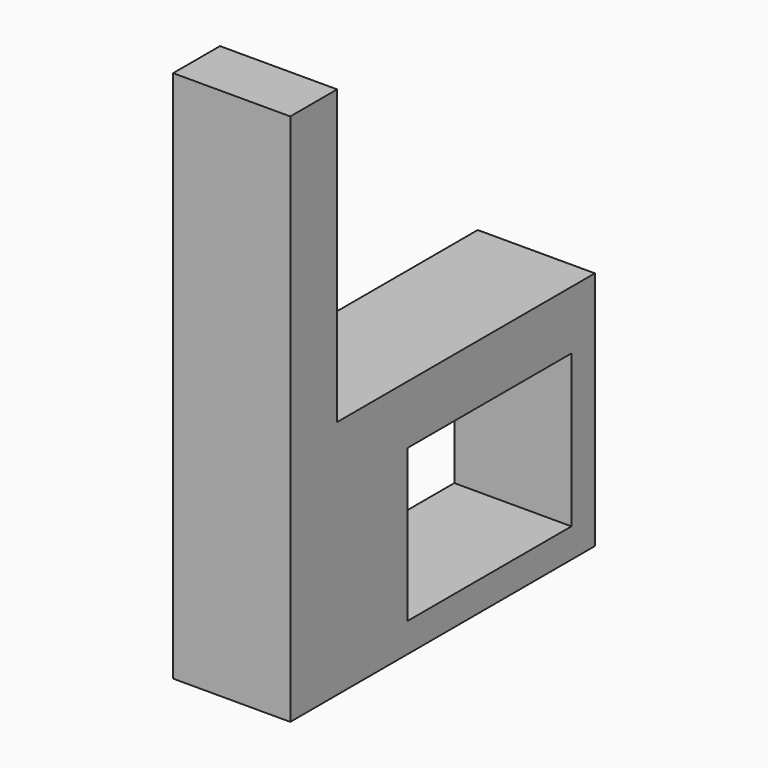
from build123d import *

# Parameters (mm, degrees)
F0_W     = 35
F0_H     = 26
F1_DEPTH = 20


with BuildPart() as f1:
    # F0 (on Right) → F1 (new body)
    with BuildSketch(Plane.YZ):
        Polygon((0, 41), (0, 0), (65, 0), (65, 41), (10, 41), (10, 91), (0, 91), align=None)
        with Locations((42.5, 18)):
            Rectangle(F0_W, F0_H, mode=Mode.SUBTRACT)
    extrude(amount=-F1_DEPTH)


solid = f1.part
